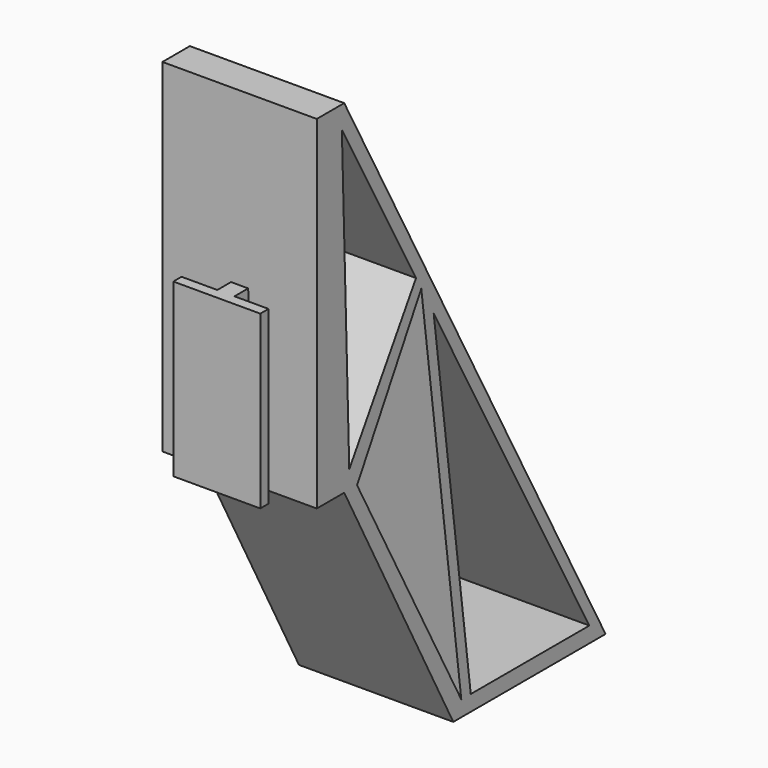
from build123d import *

# Parameters (mm, degrees)
F1_DEPTH = 5.08
F2_DEPTH = 2.54
F4_DEPTH = 1.524
F6_DEPTH = 22.86
F8_DEPTH = 25.4


with BuildPart() as f1:
    # F0 (on Front) → F1 (new body)
    with BuildSketch(Plane.XZ):
        Polygon((11.43, 25.4), (-11.43, 25.4), (-11.43, -25.4), (-6.35, -25.4), (-6.35, 0), (-1.27, 0), (1.27, 0), (6.35, 0), (6.35, -25.4), (11.43, -25.4), align=None)
        Polygon((-6.35, 0), (-6.35, -25.4), (-2.286, -25.4), (-1.27, 0), align=None)
        Polygon((-1.27, 0), (-2.286, -25.4), (2.032, -25.4), (1.27, 0), align=None)
        Polygon((2.032, -25.4), (6.35, -25.4), (6.35, 0), (1.27, 0), align=None)
    extrude(amount=-F1_DEPTH)

    # F0 (on Front) → F2 (join)
    with BuildSketch(Plane.XZ):
        Polygon((-1.27, 0), (-2.286, -25.4), (2.032, -25.4), (1.27, 0), align=None)
    extrude(amount=F2_DEPTH)

    # F3 (on face) → F4 (join)
    with BuildSketch(Plane.XZ.offset(2.54)):
        Polygon((6.313071, 0), (1.27, 0), (2.032, -25.4), (6.313071, -25.4), align=None)
        Polygon((1.27, 0), (-1.27, 0), (-2.286, -25.4), (2.032, -25.4), align=None)
        Polygon((-1.27, 0), (-6.567071, 0), (-6.567071, -25.4), (-2.286, -25.4), align=None)
    extrude(amount=F4_DEPTH)

    # F5 (on face) → F6 (join, through all)
    with BuildSketch(Plane(origin=(-11.43, 0, 0), x_dir=(0, -1, 0), z_dir=(-1, 0, 0))):
        Polygon((-5.08, -25.4), (-5.08, 25.4), (-53.4693, -63.5), (-25.275299, -63.5), align=None)
    extrude(amount=-F6_DEPTH)

    # F7 (on face) → F8 (cut)
    with BuildSketch(Plane.YZ.offset(11.43)):
        Polygon((18.372589, -2.824009), (4.645219, 22.132182), (6.014857, -22.718789), align=None)
        Polygon((7.461059, -25.4), (26.760479, -61.180491), (19.348416, -4.59805), align=None)
        Polygon((28.510716, -61.180491), (50.472081, -61.180491), (21.645763, -8.774598), align=None)
    extrude(amount=-F8_DEPTH, mode=Mode.SUBTRACT)


solid = f1.part
